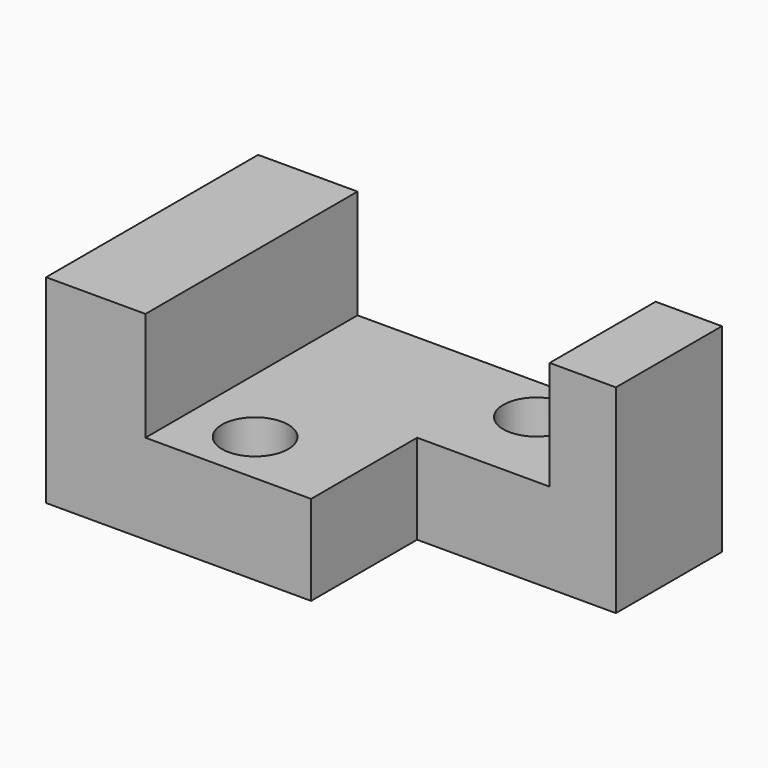
from build123d import *

# Parameters (mm, degrees)
F1_DEPTH = 50.8
F2_W     = 38.1
F2_H     = 25.4
F3_DEPTH = 38.101
F5_D     = 12.7


with BuildPart() as f1:
    # F0 (on Front) → F1 (new body)
    with BuildSketch(Plane.XZ):
        Polygon((-41.500658, 3.663934), (-60.550658, 3.663934), (-60.550658, -34.436066), (28.349342, -34.436066), (28.349342, 3.663934), (15.649342, 3.663934), (15.649342, -17.219239), (-41.500658, -17.219239), align=None)
    extrude(amount=F1_DEPTH)

    # F2 (on face) → F3 (cut, through all)
    with BuildSketch(Plane(origin=(0, 0, -34.436066), x_dir=(1, 0, 0), z_dir=(0, 0, -1))):
        with Locations((9.299342, 38.1)):
            Rectangle(F2_W, F2_H)
    extrude(amount=-F3_DEPTH, mode=Mode.SUBTRACT)

    # F5 (through all)
    with Locations(Plane.XY.offset(-17.219239)):
        with Locations((-28.852955, -40.337186), (0, -9.016548)):
            Hole(F5_D / 2)


solid = f1.part
